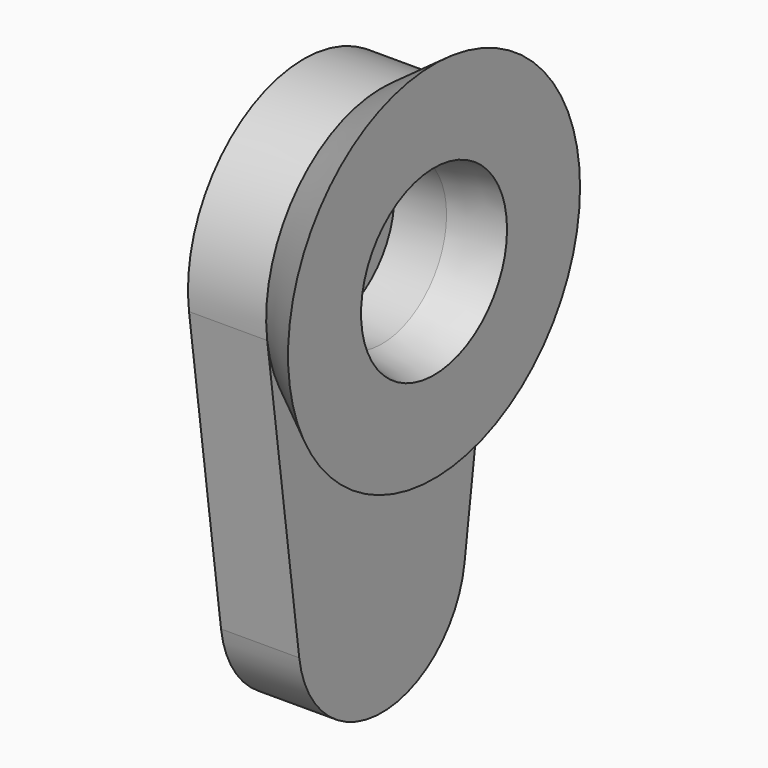
from build123d import *

# Parameters (mm, degrees)
PAD_DEPTH    = 3
SKETCH001_R  = 3.1
POCKET_DEPTH = 2
SKETCH004_R  = 3.1
SKETCH005_R  = 3.5
SKETCH002_R  = 5.55
SKETCH003_R  = 7


with BuildPart() as tasche_magnet:
    # Sketch → Pad (new body)
    with BuildSketch(Plane.YZ):
        with BuildLine():
            ThreePointArc((5.499797, -0.744805), (1e-06, 5.55), (-5.499797, -0.744803))
            Line((-5.499797, -0.744803), (-3.963815, -12.086812))
            ThreePointArc((-3.963815, -12.086812), (-1e-06, -15.55), (3.963815, -12.086815))
            Line((5.499797, -0.744805), (3.963815, -12.086815))
        make_face()
    extrude(amount=PAD_DEPTH)

    # Sketch001 → Pocket (cut)
    with BuildSketch(Plane.YZ.offset(3)):
        Circle(SKETCH001_R)
    extrude(amount=-POCKET_DEPTH, mode=Mode.SUBTRACT)


with BuildPart() as loft001:
    # Sketch004 → Loft001 section 0
    with BuildSketch(Plane.YZ.offset(3)):
        Circle(SKETCH004_R)
    # Sketch005 → Loft001 section 1
    with BuildSketch(Plane.YZ.offset(5)):
        Circle(SKETCH005_R)
    loft()


with BuildPart() as fusion:
    # Sketch002 → Loft section 0
    with BuildSketch(Plane.YZ.offset(3)):
        Circle(SKETCH002_R)
    # Sketch003 → Loft section 1
    with BuildSketch(Plane.YZ.offset(5)):
        Circle(SKETCH003_R)
    loft()

    # Cut: cut Loft001
    add(loft001.part, mode=Mode.SUBTRACT)

    # Fusion: union Tasche Magnet
    add(tasche_magnet.part)


solid = fusion.part
